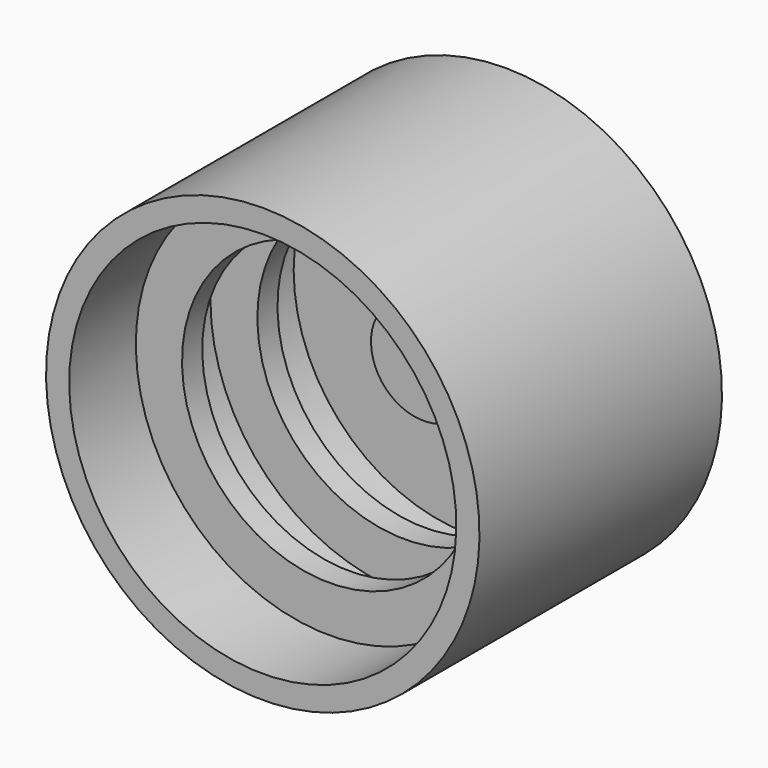
from build123d import *


with BuildPart() as f1:
    # F0 (on Right) → F1 (revolve)
    with BuildSketch(Plane.YZ):
        Polygon((-25.5454182625, 0), (-7.984559983, 0), (-8.9802779257, 27.165742591), (-16.7649891227, 27.165742591), (-16.7649891227, 8.156567812), (-25.5454182625, 8.156567812), align=None)
    revolve(axis=Axis((0, -16.7649891227, 0), (0, -1, 0)))


with BuildPart() as f3:
    # F2 (on Right) → F3 (revolve)
    with BuildSketch(Plane.YZ):
        Polygon((-25.3146700561, 30.1983803511), (-9.7422320396, 30.1983803511), (-9.7422320396, 33.5784740746), (-18.8029632679, 33.5784740746), (-56.7066520452, 33.5784740746), (-56.7066520452, 29.9861170352), (-43.8025183976, 29.9861170352), (-43.8025183976, 22.8321645409), (-39.8822762072, 22.8321645409), (-39.8822762072, 30.1005579531), (-29.2070619762, 30.1005579531), (-29.2070619762, 22.8321645409), (-25.3146700561, 22.8321645409), align=None)
    revolve(axis=Axis((0, -29.852210544, -0.0006835908), (0, -1, 0)))


solid = Compound([f1.part, f3.part])
